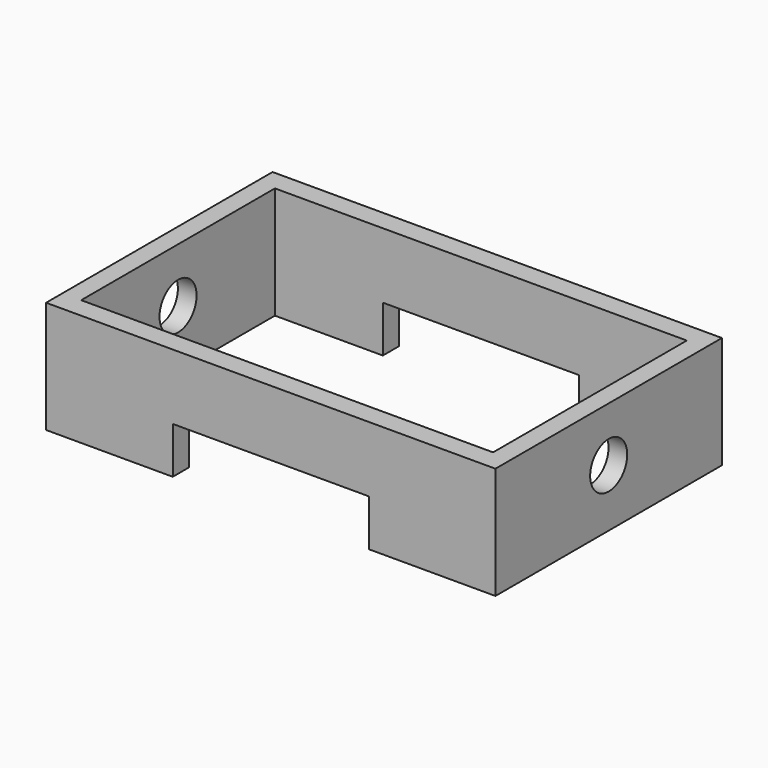
from build123d import *

# Parameters (mm, degrees)
F0_W     = 122.230552
F0_H     = 77.007032
F1_DEPTH = 30.48
F2_W     = 112.040394
F2_H     = 65.861254
F3_DEPTH = 120.65
F4_R     = 6.306585
F5_DEPTH = 227.33
F6_W     = 53.315248
F6_H     = 12.666776
F7_DEPTH = 179.578


with BuildPart() as f1:
    # F0 (on Top) → F1 (new body)
    with BuildSketch(Plane.XY):
        Rectangle(F0_W, F0_H)
    extrude(amount=F1_DEPTH)

    # F2 (on face) → F3 (cut)
    with BuildSketch(Plane(origin=(0, 0, 0), x_dir=(1, 0, 0), z_dir=(0, 0, -1))):
        Rectangle(F2_W, F2_H)
    extrude(amount=-F3_DEPTH, mode=Mode.SUBTRACT)

    # F4 (on face) → F5 (cut)
    with BuildSketch(Plane.YZ.offset(61.115276)):
        with Locations((0, 15.667252)):
            Circle(F4_R)
    extrude(amount=-F5_DEPTH, mode=Mode.SUBTRACT)

    # F6 (on face) → F7 (cut)
    with BuildSketch(Plane.XZ.offset(38.503516)):
        with Locations((0, 6.333388)):
            Rectangle(F6_W, F6_H)
    extrude(amount=-F7_DEPTH, mode=Mode.SUBTRACT)


solid = f1.part
